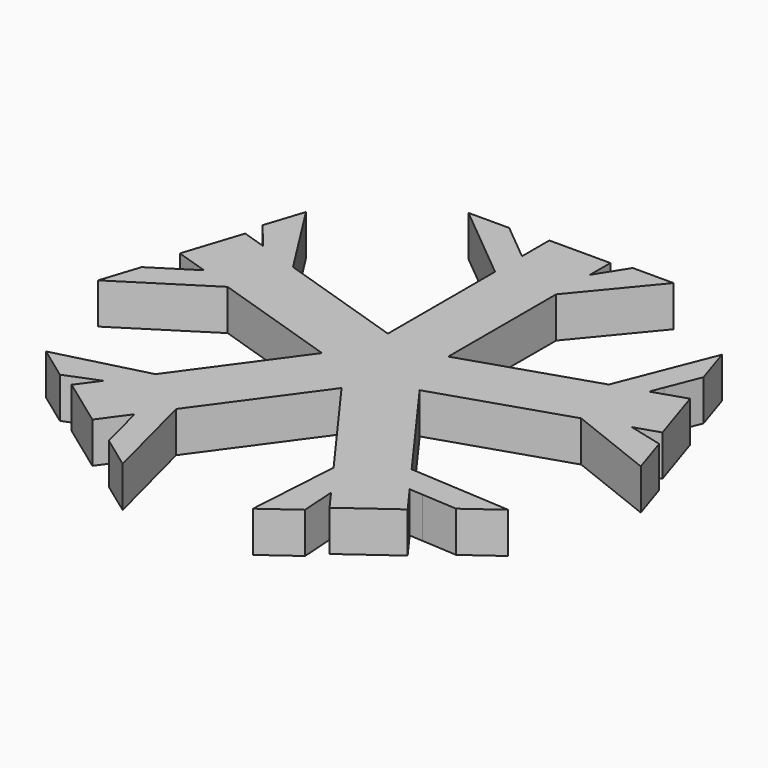
from build123d import *

# Parameters (mm, degrees)
F1_DEPTH = 10


with BuildPart() as f1:
    # F0 (on Top) → F1 (new body)
    with BuildSketch(Plane.XY):
        Polygon((7.6458979765, 60), (-7.3541020235, 60), (-7.3541020235, 51.6029546578), (-7.3541020235, 43.3372538537), (-7.3541020235, 10.4288654882), (0.4721357698, 7.8859666818), (7.6458979765, 10.2168633188), (7.6458979765, 43.3372538537), (7.6458979765, 53.7253396309), align=None)
        Polygon((-7.3541020235, 2.8859255222), (-7.3541020235, 10.4288654882), (-38.8534652639, 20.6636290238), (-48.7331219341, 23.873724068), (-54.7006785657, 25.812700756), (-59.3359334813, 11.5468530116), (-51.349868791, 8.9520232983), (-43.4887201795, 6.3977812794), (-12.1909829838, -3.771469983), align=None)
        Polygon((-5.0172207771, -6.10236662), (-12.1909829838, -3.771469983), (-31.6586600903, -30.566428786), (-37.7646237097, -38.9705667188), (-41.4527765378, -44.0468735914), (-29.3175216222, -52.8636523757), (-24.3818622072, -46.0702999914), (-19.5234051747, -39.3832075704), (-0.1803398168, -12.7597621253), align=None)
        Polygon((31.4225922054, -30.7379421439), (12.0795268475, -4.1144966988), (4.2532890542, -6.6573955052), (-0.1803398168, -12.7597621253), (19.2873372898, -39.5547209283), (25.3933009092, -47.9588588611), (29.0814537373, -53.0351657336), (41.2167086529, -44.2183869492), (36.2810492379, -37.4250345649), align=None)
        Polygon((38.9436351723, 20.3861145812), (7.6458979765, 10.2168633188), (7.6458979765, 1.9878699213), (12.0795268475, -4.1144966988), (43.5788900879, 6.1202668368), (53.4585467582, 9.330361881), (59.4261033897, 11.269338569), (54.7908484741, 25.5351863134), (46.8047837837, 22.9403566001), align=None)
        Polygon((48.1314001915, 43.636597887), (38.9436351723, 20.3861145812), (46.8047837837, 22.9403566001), (48.0294351372, 26.0394493382), (51.2231022579, 34.1213173353), align=None)
        Polygon((53.4585467582, 9.330361881), (43.5788900879, 6.1202668368), (64.9693347292, -2.3324769809), (61.8791647854, 7.1780881821), align=None)
        Polygon((12.2949459763, 61.0687341275), (7.6458979765, 53.7253396309), (7.6458979765, 43.3372538537), (22.2949459763, 61.0687341275), align=None)
        Polygon((-7.3541020235, 43.3372538537), (-7.3541020235, 51.6029546578), (-9.9230762862, 53.7253396309), (-16.622492094, 59.2601321143), (-26.6274501472, 59.2601321143), align=None)
        Polygon((-48.7331219341, 23.873724068), (-38.8534652639, 20.6636290238), (-51.1903003385, 40.0750303216), (-54.2804702822, 30.5644651586), align=None)
        Polygon((-64.5880694162, -7.0118220625), (-43.4887201795, 6.3977812794), (-51.349868791, 8.9520232983), (-54.1622335551, 7.1646366109), (-61.4963673497, 2.5034584892), align=None)
        Polygon((-37.7646237097, -38.9705667188), (-31.6586600903, -30.566428786), (-53.9322914798, -36.3010032886), (-45.8421215361, -42.1788558115), align=None)
        Polygon((-13.2901720198, -63.593676472), (-19.5234051747, -39.3832075704), (-24.3818622072, -46.0702999914), (-23.5510249575, -49.2973506884), (-21.3843531128, -57.7129096786), align=None)
        Polygon((25.3933009092, -47.9588588611), (19.2873372898, -39.5547209283), (17.8583111128, -62.5102841796), (25.9484810565, -56.6324316567), align=None)
        Polygon((56.3742913916, -32.2912314667), (31.4225922054, -30.7379421439), (36.2810492379, -37.4250345649), (39.6068996614, -37.6320748916), (48.2801102986, -38.1719982602), align=None)
        Polygon((12.0795268475, -4.1144966988), (7.6458979765, 1.9878699213), (7.6458979765, 0), (0, 0), (5.9495935154, -4.3226327132), (4.2532890542, -6.6573955052), align=None)
        Polygon((5.9495935154, -4.3226327132), (0, 0), (2.362712412, -7.2716810935), (4.2532890542, -6.6573955052), align=None)
        Polygon((2.362712412, -7.2716810935), (0, 0), (-2.2725425036, -6.9941666509), (-5.0172207771, -6.10236662), (-0.1803398168, -12.7597621253), (4.2532890542, -6.6573955052), align=None)
        Polygon((-2.2725425036, -6.9941666509), (0, 0), (-6.1856614003, -4.4941460711), (-5.0172207771, -6.10236662), align=None)
        Polygon((-7.3541020235, 0), (-7.3541020235, 2.8859255222), (-12.1909829838, -3.771469983), (-5.0172207771, -6.10236662), (-6.1856614003, -4.4941460711), (0, 0), align=None)
        Polygon((0.4721357698, 7.8859666818), (-7.3541020235, 10.4288654882), (-7.3541020235, 2.8859255222), (-6.1856614003, 4.4941460711), (0, 0), (-2.2725425036, 6.9941666509), align=None)
        Polygon((2.362712412, 7.2716810935), (0.4721357698, 7.8859666818), (-2.2725425036, 6.9941666509), (0, 0), align=None)
        Polygon((7.6458979765, 1.9878699213), (7.6458979765, 10.2168633188), (0.4721357698, 7.8859666818), (2.362712412, 7.2716810935), (0, 0), (5.9495935154, 4.3226327132), align=None)
        Polygon((7.6458979765, 0), (7.6458979765, 1.9878699213), (5.9495935154, 4.3226327132), (0, 0), align=None)
        Polygon((-6.1856614003, 4.4941460711), (-7.3541020235, 2.8859255222), (-7.3541020235, 0), (0, 0), align=None)
    extrude(amount=F1_DEPTH)


solid = f1.part
